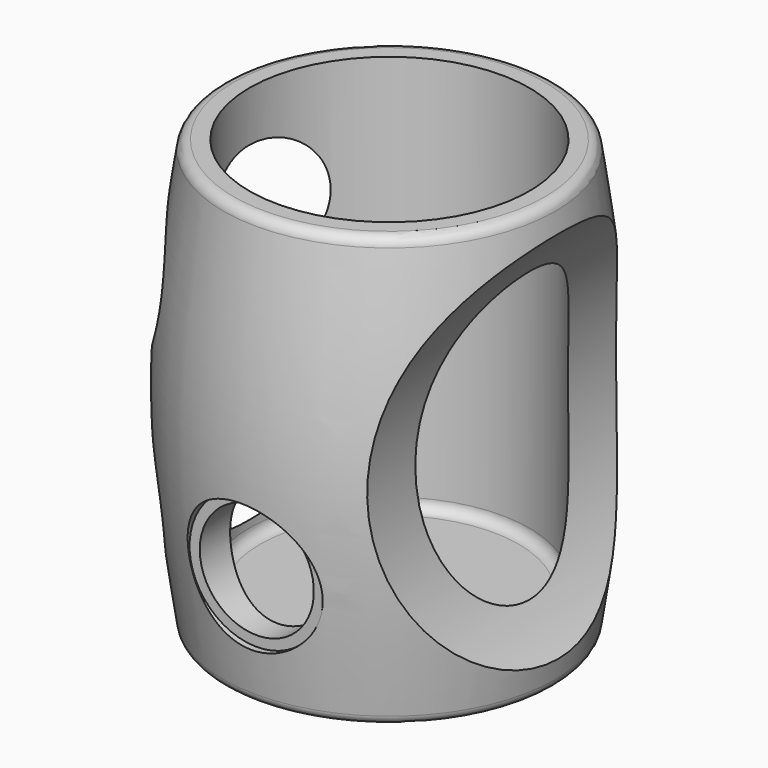
from build123d import *

# Parameters (mm, degrees)
F2_R           = 34.925
F3_DEPTH       = 21.9720001
F3_DEPTH_BACK  = 21.9720001
F5_R           = 7.9375
F6_DEPTH       = 2.4140001
F7_D           = 13.462
F7_DEPTH       = 7.2571428571
F7_TIP         = 4.0443928267
F9_D           = 5.1054
F9_DEPTH       = 7.9502
F9_CSINK_D     = 10.4394
F9_CSINK_ANGLE = 82
F9_TIP         = 1.5338169022
F10_R          = 1.27


with BuildPart() as f1:
    # F0 (on Front) → F1 (revolve)
    with BuildSketch(Plane.XZ):
        with BuildLine():
            Line((-16.51, 25.4), (-18.3371938656, 25.4))
            ThreePointArc((-18.3371938656, 25.4), (-19.1660684864, 25.0922197582), (-19.5931931367, 24.318058052))
            add(Edge.make_bspline(
                [(-19.5931931367, -24.318058052), (-20.8068898673, -16.2120387014), (-23.1351101327, 0), (-20.8068898673, 16.2120387014), (-19.5931931367, 24.318058052)],
                knots=[0.0212980698, 0.0212980698, 0.0212980698, 0.0212980698, 0.5, 0.9787019302, 0.9787019302, 0.9787019302, 0.9787019302], degree=3))
            ThreePointArc((-19.5931931367, -24.318058052), (-19.1660684864, -25.0922197582), (-18.3371938656, -25.4))
            Line((-18.3371938656, -25.4), (0, -25.4))
            Line((0, -25.4), (0, -21.59))
            Line((0, -21.59), (-16.51, -21.59))
            Line((-16.51, -21.59), (-16.51, 25.4))
        make_face()
    revolve(axis=Axis((0, 0, 1.905), (0, 0, -1)))

    # F2 (on Front) → F3 (cut, two sides)
    with BuildSketch(Plane.XZ) as f3_sk:
        with Locations((46.99, 0)):
            Circle(F2_R)
        with BuildLine():
            ThreePointArc((-26.035, 0), (-17.503756685, 3.533756685), (-13.97, 12.065))
            ThreePointArc((-13.97, 12.065), (-34.566243315, 20.596243315), (-26.035, 0))
        make_face()
        with BuildLine():
            ThreePointArc((-13.97, -12.065), (-17.503756685, -3.533756685), (-26.035, 0))
            ThreePointArc((-26.035, 0), (-34.566243315, -20.596243315), (-13.97, -12.065))
        make_face()
    extrude(amount=-F3_DEPTH, mode=Mode.SUBTRACT)
    extrude(f3_sk.sketch, amount=F3_DEPTH_BACK, mode=Mode.SUBTRACT)

    # F5 (on offset) → F6 (cut, through all)
    with BuildSketch(Plane.XZ.offset(19.558)):
        with Locations((0, -11.43)):
            Circle(F5_R)
    extrude(amount=F6_DEPTH, mode=Mode.SUBTRACT)

    # F7
    with Locations(Plane.XZ.offset(19.558)):
        with Locations((0, -11.43)):
            Hole(F7_D / 2, depth=F7_DEPTH)
            with Locations((0, 0, -(F7_DEPTH + F7_TIP / 2))):  # 118° drill point
                Cone(0, F7_D / 2, F7_TIP, mode=Mode.SUBTRACT)

    # F9
    with Locations(Plane(origin=(0, 0, -25.4), x_dir=(1, 0, 0), z_dir=(0, 0, -1))):
        with Locations((0, 0)):
            CounterSinkHole(F9_D / 2, F9_CSINK_D / 2, depth=F9_DEPTH, counter_sink_angle=F9_CSINK_ANGLE)
            with Locations((0, 0, -(F9_DEPTH + F9_TIP / 2))):  # 118° drill point
                Cone(0, F9_D / 2, F9_TIP, mode=Mode.SUBTRACT)

    # F10
    f10_edges = [f1.edges().sort_by_distance(p)[0] for p in [
        (16.51, 0, -21.59),
    ]]
    fillet(f10_edges, radius=F10_R)


solid = f1.part
